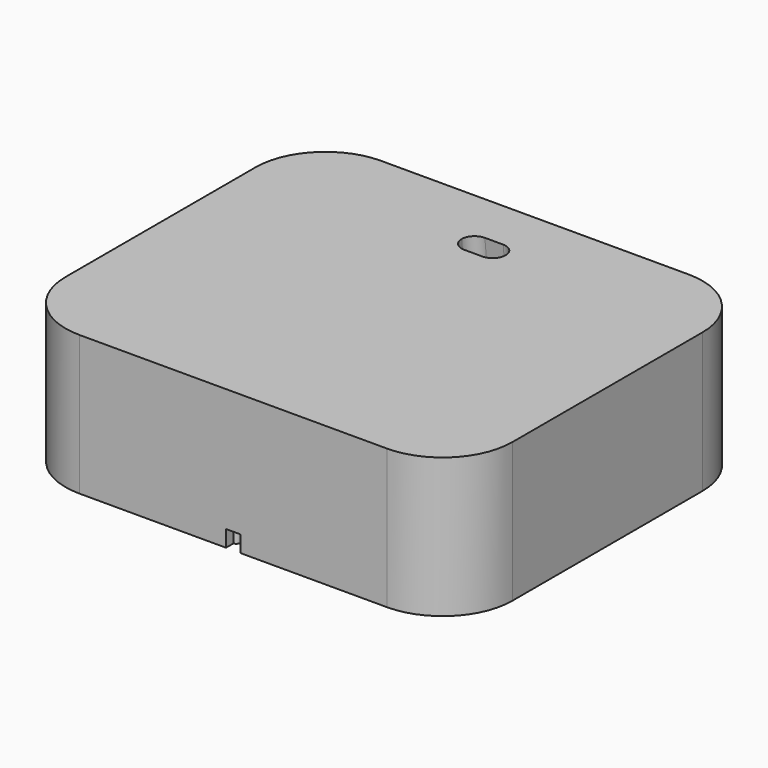
from build123d import *

# Parameters (mm, degrees)
F0_W      = 81.28
F0_H      = 68.58
F1_DEPTH  = 25.4
F2_R      = 12.7
F6_DEPTH  = 4
F7_DEPTH  = 4
F8_R      = 2.3368
F9_W      = 2.6
F9_H      = 63.246
F10_DEPTH = 3
F11_R     = 0.704457
F11_R_2   = 0.745283
F11_R_3   = 0.659045
F12_DEPTH = 3
F13_R     = 0.752956
F13_R_2   = 0.762497
F13_R_3   = 0.660913
F14_DEPTH = 3


with BuildPart() as f1:
    # F0 (on Top) → F1 (new body)
    with BuildSketch(Plane.XY):
        Rectangle(F0_W, F0_H)
    extrude(amount=F1_DEPTH)

    # F2
    f2_edges = [f1.edges().sort_by_distance(p)[0] for p in [
        (-40.64, 34.29, 12.7),
        (40.64, 34.29, 12.7),
        (40.64, -34.29, 12.7),
        (-40.64, -34.29, 12.7),
    ]]
    fillet(f2_edges, radius=F2_R)

    # F5 (on Right) → F6 (cut)
    with BuildSketch(Plane.YZ):
        Polygon((25.001539, 25.452133), (20.298591, 25.414156), (22.890521, 0), (27.611947, 0), align=None)
    extrude(amount=-F6_DEPTH, mode=Mode.SUBTRACT)

    # F5 (on Right) → F7 (cut)
    with BuildSketch(Plane.YZ):
        Polygon((25.001539, 25.452133), (20.298591, 25.414156), (22.890521, 0), (27.611947, 0), align=None)
    extrude(amount=F7_DEPTH, mode=Mode.SUBTRACT)

    # F8
    f8_edges = [f1.edges().sort_by_distance(p)[0] for p in [
        (4, 26.309416, 12.7),
        (4, 21.595278, 12.7),
        (-4, 21.595278, 12.7),
        (-4, 26.309416, 12.7),
    ]]
    fillet(f8_edges, radius=F8_R)

    # F9 (on face) → F10 (cut)
    with BuildSketch(Plane(origin=(0, 0, 0), x_dir=(1, 0, 0), z_dir=(0, 0, -1))):
        with Locations((0, 8.263034)):
            Rectangle(F9_W, F9_H)
    extrude(amount=-F10_DEPTH, mode=Mode.SUBTRACT)

    # F11 (on face) → F12 (join)
    with BuildSketch(Plane(origin=(0, 0, 0), x_dir=(1, 0, 0), z_dir=(0, 0, -1))):
        with Locations((-1.345439, -17.611282)):
            Circle(F11_R)
        with Locations((1.279058, -14.837421)):
            Circle(F11_R_2)
        with Locations((1.279058, -20.171767)):
            Circle(F11_R_3)
    extrude(amount=-F12_DEPTH)


with BuildPart() as f14:
    # F13 (on face) → F14 (new body)
    with BuildSketch(Plane(origin=(0, 0, 0), x_dir=(1, 0, 0), z_dir=(0, 0, -1))):
        with Locations((-1.380891, 31.849604)):
            Circle(F13_R)
        with Locations((1.270037, 28.609581)):
            Circle(F13_R_2)
        with Locations((-1.356346, 25.664104)):
            Circle(F13_R_3)
    extrude(amount=-F14_DEPTH)


solid = Compound([f1.part, f14.part])
